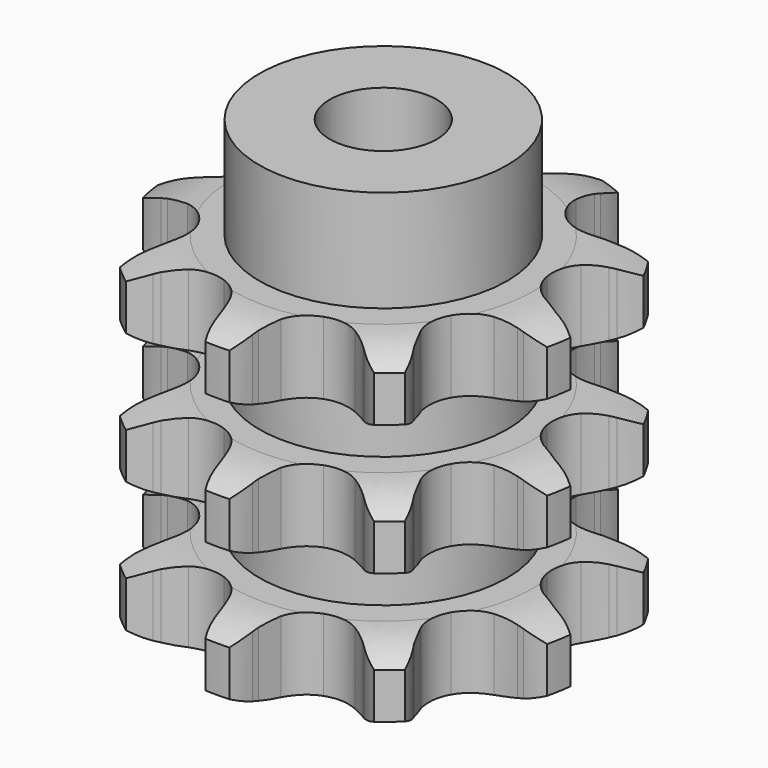
from build123d import *

# Parameters (mm, degrees)
PAD_DEPTH         = 49.8
SKETCH001_R       = 18.5
PAD001_DEPTH      = 65
SKETCH002_R       = 8
POCKET_DEPTH      = 0.001
POCKET_DEPTH_BACK = 65.001


with BuildPart() as part:
    # Sprocket → Pad (new body)
    with BuildSketch(Plane.XY):
        with BuildLine():
            ThreePointArc((-11.430211, 31.404248), (-8.853704, 29.657244), (-6.91389, 27.222592))
            Line((-6.91389, 27.222592), (-6.449913, 26.41535))
            ThreePointArc((-6.449913, 26.41535), (-5.572078, 25.054955), (-4.559299, 23.791805))
            ThreePointArc((-4.559299, 23.791805), (-2.498634, 22.280862), (0, 21.745962))
            ThreePointArc((0, 21.745962), (2.498634, 22.280862), (4.559299, 23.791805))
            ThreePointArc((4.559299, 23.791805), (5.572078, 25.054955), (6.449913, 26.41535))
            Line((6.449913, 26.41535), (6.91389, 27.222592))
            ThreePointArc((6.91389, 27.222592), (8.853704, 29.657244), (11.430211, 31.404248))
            ThreePointArc((11.430211, 31.404248), (12.280978, 28.409818), (12.201998, 25.297878))
            Line((12.201998, 25.297878), (12.038539, 24.381256))
            ThreePointArc((12.038539, 24.381256), (11.836555, 22.774872), (11.800451, 21.156241))
            ThreePointArc((11.800451, 21.156241), (12.407798, 18.674222), (13.978035, 16.658373))
            ThreePointArc((13.978035, 16.658373), (16.235927, 15.46204), (18.785703, 15.294919))
            Line((18.785703, 15.294919), (21.92038, 16.089408))
            ThreePointArc((21.92038, 16.089408), (22.355171, 16.255938), (22.794692, 16.409553))
            ThreePointArc((22.794692, 16.409553), (25.84564, 17.027715), (28.942311, 16.709851))
            ThreePointArc((28.942311, 16.709851), (27.669254, 13.869123), (25.608435, 11.536006))
            Line((25.608435, 11.536006), (24.894026, 10.938902))
            ThreePointArc((24.894026, 10.938902), (23.706733, 9.838173), (22.63864, 8.621437))
            ThreePointArc((22.63864, 8.621437), (21.508483, 6.329705), (21.415592, 3.776147))
            ThreePointArc((21.415592, 3.776147), (22.376249, 1.408357), (24.222068, -0.35863))
            Line((24.222068, -0.35863), (27.134057, -1.764947))
            ThreePointArc((27.134057, -1.764947), (27.57417, -1.916856), (28.009604, -2.081699))
            ThreePointArc((28.009604, -2.081699), (30.744113, -3.56927), (32.911982, -5.80327))
            ThreePointArc((32.911982, -5.80327), (30.110779, -7.161089), (27.032401, -7.623692))
            Line((27.032401, -7.623692), (26.101321, -7.621886))
            ThreePointArc((26.101321, -7.621886), (24.484267, -7.701916), (22.883957, -7.947433))
            ThreePointArc((22.883957, -7.947433), (20.54511, -8.976551), (18.832555, -10.872981))
            ThreePointArc((18.832555, -10.872981), (18.046476, -13.304312), (18.324658, -15.844372))
            Line((18.324658, -15.844372), (19.651407, -18.793464))
            ThreePointArc((19.651407, -18.793464), (19.890909, -19.192732), (20.118511, -19.5989))
            ThreePointArc((20.118511, -19.5989), (21.257074, -22.496155), (21.481771, -25.600977))
            ThreePointArc((21.481771, -25.600977), (18.463135, -24.840548), (15.807606, -23.216179))
            Line((15.807606, -23.216179), (15.095518, -22.616309))
            ThreePointArc((15.095518, -22.616309), (13.80534, -21.638193), (12.421617, -20.797611))
            ThreePointArc((12.421617, -20.797611), (9.968452, -20.082579), (7.437557, -20.43452))
            ThreePointArc((7.437557, -20.43452), (5.272556, -21.791745), (3.852936, -23.916356))
            Line((3.852936, -23.916356), (2.973646, -27.02831))
            ThreePointArc((2.973646, -27.02831), (2.90047, -27.488115), (2.813744, -27.945558))
            ThreePointArc((2.813744, -27.945558), (1.823614, -30.896838), (0, -33.419702))
            ThreePointArc((0, -33.419702), (-1.823614, -30.896838), (-2.813744, -27.945558))
            Line((-2.813744, -27.945558), (-2.973646, -27.02831))
            ThreePointArc((-2.973646, -27.02831), (-3.333259, -25.449719), (-3.852936, -23.916356))
            ThreePointArc((-3.852936, -23.916356), (-5.272556, -21.791745), (-7.437557, -20.43452))
            ThreePointArc((-7.437557, -20.43452), (-9.968452, -20.082579), (-12.421617, -20.797611))
            Line((-12.421617, -20.797611), (-15.095518, -22.616309))
            ThreePointArc((-15.095518, -22.616309), (-15.447131, -22.921504), (-15.807606, -23.216179))
            ThreePointArc((-15.807606, -23.216179), (-18.463135, -24.840548), (-21.481771, -25.600977))
            ThreePointArc((-21.481771, -25.600977), (-21.257074, -22.496155), (-20.118511, -19.5989))
            Line((-20.118511, -19.5989), (-19.651407, -18.793464))
            ThreePointArc((-19.651407, -18.793464), (-18.912188, -17.353039), (-18.324658, -15.844372))
            ThreePointArc((-18.324658, -15.844372), (-18.046476, -13.304312), (-18.832555, -10.872981))
            ThreePointArc((-18.832555, -10.872981), (-20.54511, -8.976551), (-22.883957, -7.947433))
            Line((-22.883957, -7.947433), (-26.101321, -7.621886))
            ThreePointArc((-26.101321, -7.621886), (-26.566848, -7.629667), (-27.032401, -7.623692))
            ThreePointArc((-27.032401, -7.623692), (-30.110779, -7.161089), (-32.911982, -5.80327))
            ThreePointArc((-32.911982, -5.80327), (-30.744113, -3.56927), (-28.009604, -2.081699))
            Line((-28.009604, -2.081699), (-27.134057, -1.764947))
            ThreePointArc((-27.134057, -1.764947), (-25.641895, -1.136678), (-24.222068, -0.35863))
            ThreePointArc((-24.222068, -0.35863), (-22.376249, 1.408357), (-21.415592, 3.776147))
            ThreePointArc((-21.415592, 3.776147), (-21.508483, 6.329705), (-22.63864, 8.621437))
            Line((-22.63864, 8.621437), (-24.894026, 10.938902))
            ThreePointArc((-24.894026, 10.938902), (-25.255641, 11.232177), (-25.608435, 11.536006))
            ThreePointArc((-25.608435, 11.536006), (-27.669254, 13.869123), (-28.942311, 16.709851))
            ThreePointArc((-28.942311, 16.709851), (-25.84564, 17.027715), (-22.794692, 16.409553))
            Line((-22.794692, 16.409553), (-21.92038, 16.089408))
            ThreePointArc((-21.92038, 16.089408), (-20.373474, 15.611546), (-18.785703, 15.294919))
            ThreePointArc((-18.785703, 15.294919), (-16.235927, 15.46204), (-13.978035, 16.658373))
            ThreePointArc((-13.978035, 16.658373), (-12.407798, 18.674222), (-11.800451, 21.156241))
            Line((-11.800451, 21.156241), (-12.038539, 24.381256))
            ThreePointArc((-12.038539, 24.381256), (-12.12704, 24.83836), (-12.201998, 25.297878))
            ThreePointArc((-12.201998, 25.297878), (-12.280978, 28.409818), (-11.430211, 31.404248))
        make_face()
    extrude(amount=PAD_DEPTH)

    # Sketch → Groove (revolve, cut)
    with BuildSketch(Plane.XZ):
        with BuildLine():
            ThreePointArc((22.514719, 0), (26.873618, 0.506758), (31, 2))
            Line((31, 2), (31, 8.8))
            ThreePointArc((31, 8.8), (26.873618, 10.293242), (22.514719, 10.8))
            Line((18.5, 10.8), (22.514719, 10.8))
            Line((18.5, 10.8), (18.5, 19.5))
            Line((18.5, 19.5), (22.514719, 19.5))
            ThreePointArc((22.514719, 19.5), (26.873618, 20.006758), (31, 21.5))
            Line((31, 28.3), (31, 21.5))
            ThreePointArc((31, 28.3), (26.873618, 29.793242), (22.514719, 30.3))
            Line((18.5, 30.3), (22.514719, 30.3))
            Line((18.5, 39), (18.5, 30.3))
            Line((22.514719, 39), (18.5, 39))
            ThreePointArc((22.514719, 39), (26.873618, 39.506758), (31, 41))
            Line((31, 41), (31, 47.8))
            ThreePointArc((31, 47.8), (26.873618, 49.293242), (22.514719, 49.8))
            Line((22.514719, 49.8), (41, 49.8))
            Line((41, 49.8), (41, 0))
            Line((22.514719, 0), (41, 0))
        make_face()
    revolve(axis=Axis((0, 0, 0), (0, 0, 1)), mode=Mode.SUBTRACT)

    # Sketch001 → Pad001 (join)
    with BuildSketch(Plane.XY):
        Circle(SKETCH001_R)
    extrude(amount=PAD001_DEPTH)

    # Sketch002 → Pocket (cut, two sides)
    with BuildSketch(Plane.XY) as pocket_sk:
        Circle(SKETCH002_R)
    extrude(amount=-POCKET_DEPTH, mode=Mode.SUBTRACT)
    extrude(pocket_sk.sketch, amount=POCKET_DEPTH_BACK, mode=Mode.SUBTRACT)


solid = part.part
